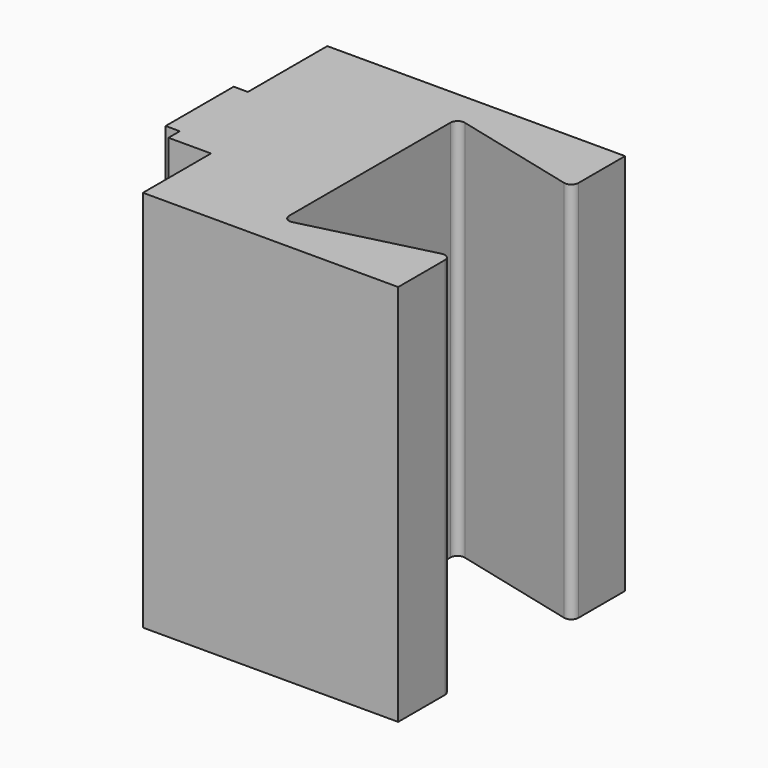
from build123d import *

# Parameters (mm, degrees)
PAD_DEPTH    = 13.5
SKETCH001_R  = 2.2
POCKET_DEPTH = 12.001
FILLET001_R  = 0.5


with BuildPart() as part:
    # Sketch → Pad (new body, symmetric)
    with BuildSketch(Plane.XY):
        Polygon((-10, 10), (11, 10), (11, 5.25), (1, 7.75), (1, -7.75), (11, -5.25), (11, -10), (-7, -10), (-7, -4), (-10, -4), (-10, -3), (-11, -3), (-11, 3), (-10, 3), align=None)
    extrude(amount=PAD_DEPTH, both=True)

    # Sketch001 (on Face6 of Pad) → Pocket (cut, through all)
    with BuildSketch(Plane.YZ.offset(1)):
        Circle(SKETCH001_R)
    extrude(amount=-POCKET_DEPTH, mode=Mode.SUBTRACT)

    # Fillet001
    fillet001_edges = [part.edges().sort_by_distance(p)[0] for p in [
        (1, 7.75, 0),
        (1, -7.75, 0),
        (11, -5.25, 0),
        (11, 5.25, 0),
    ]]
    fillet(fillet001_edges, radius=FILLET001_R)


solid = part.part
